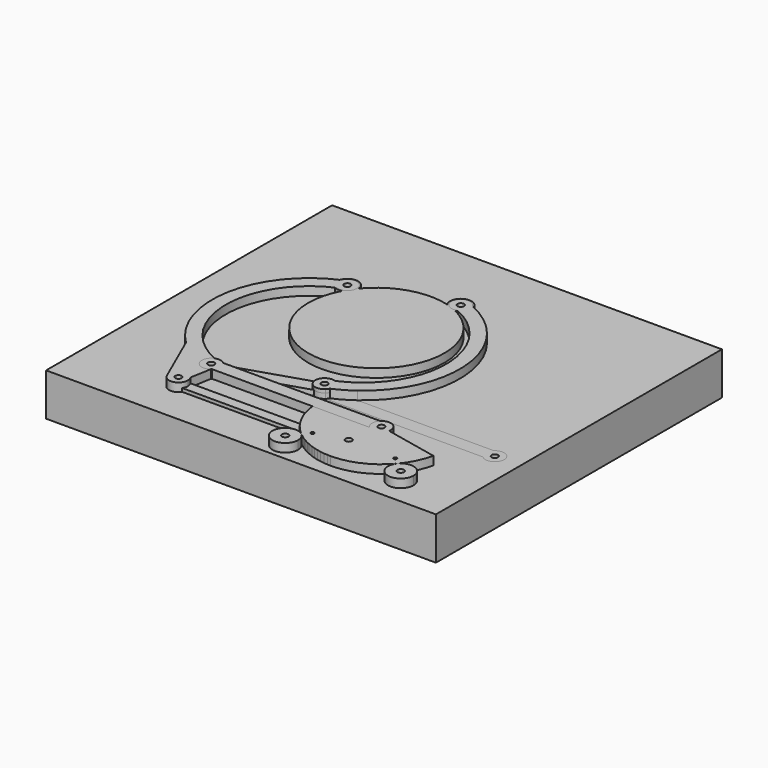
from build123d import *

# Parameters (mm, degrees)
F0_W      = 581.66
F0_H      = 533.4
F0_R      = 4.7625
F1_DEPTH  = 63.5
F2_DEPTH  = 12.7
F3_R      = 4.7625
F4_DEPTH  = 12.7
F5_DEPTH  = 12.7
F3_R_2    = 2.54
F6_DEPTH  = 12.7
F7_DEPTH  = 12.7
F8_DEPTH  = 12.7
F9_DEPTH  = 7.62
F10_R     = 4.7625
F11_DEPTH = 5.08


with BuildPart() as f1:
    # F0 (on Top) → F1 (new body)
    with BuildSketch(Plane.XY):
        with Locations((41.91, -38.1)):
            Rectangle(F0_W, F0_H)
        with Locations((160.02, -190.5)):
            Circle(F0_R, mode=Mode.SUBTRACT)
        with Locations((294.64, -147.32)):
            Circle(F0_R, mode=Mode.SUBTRACT)
        with BuildLine():
            ThreePointArc((44.573985755, 91.3001631647), (86.172144434, 53.8230575464), (101.6, 0))
            ThreePointArc((101.6, 0), (-24.9133341706, -98.4981511527), (-89.3820035532, 48.3054597412))
            ThreePointArc((-89.3820035532, 48.3054597412), (-107.133849878, 72.387736404), (-78.1671570536, 64.9034325607))
            ThreePointArc((-78.1671570536, 64.9034325607), (-30.2217164321, 97.0010714162), (27.4702221657, 97.8158826273))
            ThreePointArc((27.4702221657, 97.8158826273), (36.0061354206, 121.8636400135), (56.515, 106.68))
            ThreePointArc((56.515, 106.68), (53.1792912252, 96.9444054845), (44.573985755, 91.3001631647))
        make_face(mode=Mode.SUBTRACT)
        with BuildLine():
            ThreePointArc((27.4702221657, 97.8158826273), (36.1691252833, 94.9439538688), (44.573985755, 91.3001631647))
            ThreePointArc((44.573985755, 91.3001631647), (53.1792912252, 96.9444054845), (56.515, 106.68))
            ThreePointArc((56.515, 106.68), (36.0061354206, 121.8636400135), (27.4702221657, 97.8158826273))
        make_face()
        with Locations((40.64, 106.68)):
            Circle(F0_R, mode=Mode.SUBTRACT)
        with BuildLine():
            ThreePointArc((27.4702221657, 97.8158826273), (34.9885741745, 91.845007208), (44.573985755, 91.3001631647))
            ThreePointArc((44.573985755, 91.3001631647), (36.1691252833, 94.9439538688), (27.4702221657, 97.8158826273))
        make_face()
        with BuildLine():
            ThreePointArc((-89.3820035532, 48.3054597412), (-24.9133341706, -98.4981511527), (101.6, 0))
            ThreePointArc((101.6, 0), (86.172144434, 53.8230575464), (44.573985755, 91.3001631647))
            ThreePointArc((44.573985755, 91.3001631647), (34.9885741745, 91.845007208), (27.4702221657, 97.8158826273))
            ThreePointArc((27.4702221657, 97.8158826273), (-30.2217164321, 97.0010714162), (-78.1671570536, 64.9034325607))
            ThreePointArc((-78.1671570536, 64.9034325607), (-78.1205468762, 64.2024041664), (-78.105, 63.5))
            ThreePointArc((-78.105, 63.5), (-81.2322782704, 54.038963286), (-89.3820035532, 48.3054597412))
        make_face()
        with BuildLine():
            ThreePointArc((-78.1671570536, 64.9034325607), (-107.133849878, 72.387736404), (-89.3820035532, 48.3054597412))
            ThreePointArc((-89.3820035532, 48.3054597412), (-84.1846392191, 56.8815129858), (-78.1671570536, 64.9034325607))
        make_face()
        with Locations((-93.98, 63.5)):
            Circle(F0_R, mode=Mode.SUBTRACT)
        with BuildLine():
            ThreePointArc((-78.1671570536, 64.9034325607), (-84.1846392191, 56.8815129858), (-89.3820035532, 48.3054597412))
            ThreePointArc((-89.3820035532, 48.3054597412), (-81.2322782704, 54.038963286), (-78.105, 63.5))
            ThreePointArc((-78.105, 63.5), (-78.1205468762, 64.2024041664), (-78.1671570536, 64.9034325607))
        make_face()
        with Locations((40.64, 106.68)):
            Circle(F0_R)
        with Locations((-93.98, 63.5)):
            Circle(F0_R)
    extrude(amount=-F1_DEPTH)


with BuildPart() as f2:
    # F0 (on Top) → F2 (new body)
    with BuildSketch(Plane.XY):
        with BuildLine():
            ThreePointArc((27.4702221657, 97.8158826273), (34.9885741745, 91.845007208), (44.573985755, 91.3001631647))
            ThreePointArc((44.573985755, 91.3001631647), (36.1691252833, 94.9439538688), (27.4702221657, 97.8158826273))
        make_face()
        with BuildLine():
            ThreePointArc((27.4702221657, 97.8158826273), (36.1691252833, 94.9439538688), (44.573985755, 91.3001631647))
            ThreePointArc((44.573985755, 91.3001631647), (53.1792912252, 96.9444054845), (56.515, 106.68))
            ThreePointArc((56.515, 106.68), (36.0061354206, 121.8636400135), (27.4702221657, 97.8158826273))
        make_face()
        with Locations((40.64, 106.68)):
            Circle(F0_R, mode=Mode.SUBTRACT)
        with BuildLine():
            ThreePointArc((-89.3820035532, 48.3054597412), (-24.9133341706, -98.4981511527), (101.6, 0))
            ThreePointArc((101.6, 0), (86.172144434, 53.8230575464), (44.573985755, 91.3001631647))
            ThreePointArc((44.573985755, 91.3001631647), (34.9885741745, 91.845007208), (27.4702221657, 97.8158826273))
            ThreePointArc((27.4702221657, 97.8158826273), (-30.2217164321, 97.0010714162), (-78.1671570536, 64.9034325607))
            ThreePointArc((-78.1671570536, 64.9034325607), (-78.1205468762, 64.2024041664), (-78.105, 63.5))
            ThreePointArc((-78.105, 63.5), (-81.2322782704, 54.038963286), (-89.3820035532, 48.3054597412))
        make_face()
        with BuildLine():
            ThreePointArc((-78.1671570536, 64.9034325607), (-84.1846392191, 56.8815129858), (-89.3820035532, 48.3054597412))
            ThreePointArc((-89.3820035532, 48.3054597412), (-81.2322782704, 54.038963286), (-78.105, 63.5))
            ThreePointArc((-78.105, 63.5), (-78.1205468762, 64.2024041664), (-78.1671570536, 64.9034325607))
        make_face()
        with BuildLine():
            ThreePointArc((-78.1671570536, 64.9034325607), (-107.133849878, 72.387736404), (-89.3820035532, 48.3054597412))
            ThreePointArc((-89.3820035532, 48.3054597412), (-84.1846392191, 56.8815129858), (-78.1671570536, 64.9034325607))
        make_face()
        with Locations((-93.98, 63.5)):
            Circle(F0_R, mode=Mode.SUBTRACT)
    extrude(amount=F2_DEPTH)


with BuildPart() as f4:
    # F3 (on Top) → F4 (new body)
    with BuildSketch(Plane.XY):
        with BuildLine():
            ThreePointArc((-85.6393422684, -201.7068875521), (-97.3664244265, -204.0533401641), (-106.611650396, -196.4667669868))
            ThreePointArc((-106.611650396, -196.4667669868), (-129.7312978514, -183.9035727841), (-150.1953119912, -167.3634375874))
            Line((-150.1953119912, -167.3634375874), (-115.5919281292, -246.1461902107))
            ThreePointArc((-115.5919281292, -246.1461902107), (-109.4730262187, -228.2543047669), (-91.1306916158, -232.8498772711))
            Line((-91.1306916158, -232.8498772711), (-85.6393422684, -201.7068875521))
        make_face()
        with BuildLine():
            ThreePointArc((-88.8313274255, -240.528233853), (-89.4185085471, -236.5206087621), (-91.1306916158, -232.8498772711))
            ThreePointArc((-91.1306916158, -232.8498772711), (-109.4730262187, -228.2543047669), (-115.5919281292, -246.1461902107))
            ThreePointArc((-115.5919281292, -246.1461902107), (-99.9311176624, -254.2002050319), (-88.8313274255, -240.528233853))
        make_face()
        with Locations((-102.8013274255, -240.528233853)):
            Circle(F3_R, mode=Mode.SUBTRACT)
        with BuildLine():
            ThreePointArc((-106.611650396, -196.4667669868), (-106.98574888, -185.3998631322), (-99.1885541168, -177.5372894805))
            ThreePointArc((-99.1885541168, -177.5372894805), (-173.7908745886, -63.5), (-99.1885541168, 50.5372894805))
            ThreePointArc((-99.1885541168, 50.5372894805), (-106.98574888, 58.3998631322), (-106.611650396, 69.4667669868))
            ThreePointArc((-106.611650396, 69.4667669868), (-191.7198262842, -37.2962820378), (-150.1953119912, -167.3634375874))
            ThreePointArc((-150.1953119912, -167.3634375874), (-129.7312978514, -183.9035727841), (-106.611650396, -196.4667669868))
        make_face()
        with BuildLine():
            ThreePointArc((-84.3917102672, -180.34), (-86.0773923032, -178.9800307469), (-87.9530276094, -177.8969645005))
            ThreePointArc((-87.9530276094, -177.8969645005), (-93.5330171729, -176.5371526417), (-99.1885541168, -177.5372894805))
            ThreePointArc((-99.1885541168, -177.5372894805), (-106.98574888, -185.3998631322), (-106.611650396, -196.4667669868))
            ThreePointArc((-106.611650396, -196.4667669868), (-97.3664244265, -204.0533401641), (-85.6393422684, -201.7068875521))
            ThreePointArc((-85.6393422684, -201.7068875521), (-85.0002570927, -201.2016408704), (-84.3917102672, -200.66))
            ThreePointArc((-84.3917102672, -200.66), (-82.9364998754, -199.0558170269), (-81.7467397048, -197.2459797324))
            ThreePointArc((-81.7467397048, -197.2459797324), (-80.4511503386, -193.9829767209), (-80.01, -190.5))
            ThreePointArc((-80.01, -190.5), (-81.1521142122, -184.9677087734), (-84.3917102672, -180.34))
        make_face()
        with Locations((-93.98, -190.5)):
            Circle(F3_R, mode=Mode.SUBTRACT)
        with BuildLine():
            ThreePointArc((-106.611650396, 69.4667669868), (-106.98574888, 58.3998631322), (-99.1885541168, 50.5372894805))
            ThreePointArc((-99.1885541168, 50.5372894805), (-86.1570402344, 51.9257959018), (-80.01, 63.5))
            ThreePointArc((-80.01, 63.5), (-90.9224892504, 77.1313069078), (-106.611650396, 69.4667669868))
        make_face()
        with Locations((-93.98, 63.5)):
            Circle(F3_R, mode=Mode.SUBTRACT)
    extrude(amount=F4_DEPTH)


with BuildPart() as f4b:
    # F3 (on Top) → F4, piece 2 (new body)
    with BuildSketch(Plane.XY):
        with BuildLine():
            ThreePointArc((45.8485541168, -134.3572894805), (48.1699696906, -135.5530778681), (50.2282897328, -137.16))
            Line((50.2282897328, -137.16), (81.4874406015, -137.16))
            ThreePointArc((81.4874406015, -137.16), (139.856080745, -4.0703582319), (53.271650396, 112.6467669868))
            ThreePointArc((53.271650396, 112.6467669868), (54.2713069078, 109.7375107497), (54.61, 106.68))
            ThreePointArc((54.61, 106.68), (52.2142040982, 98.8570402344), (45.8485541168, 93.7172894805))
            ThreePointArc((45.8485541168, 93.7172894805), (120.4508745886, -20.32), (45.8485541168, -134.3572894805))
        make_face()
        with BuildLine():
            ThreePointArc((53.271650396, 112.6467669868), (27.63425112, 111.7801368678), (45.8485541168, 93.7172894805))
            ThreePointArc((45.8485541168, 93.7172894805), (52.2142040982, 98.8570402344), (54.61, 106.68))
            ThreePointArc((54.61, 106.68), (54.2713069078, 109.7375107497), (53.271650396, 112.6467669868))
        make_face()
        with Locations((40.64, 106.68)):
            Circle(F3_R, mode=Mode.SUBTRACT)
        with BuildLine():
            ThreePointArc((50.2282897328, -137.16), (53.4678857878, -141.7877087734), (54.61, -147.32))
            ThreePointArc((54.61, -147.32), (54.2713069078, -150.3775107497), (53.271650396, -153.2867669868))
            ThreePointArc((53.271650396, -153.2867669868), (67.8334837261, -146.0176050381), (81.4874406015, -137.16))
            Line((81.4874406015, -137.16), (50.2282897328, -137.16))
        make_face()
        with BuildLine():
            ThreePointArc((53.271650396, -153.2867669868), (54.2713069078, -150.3775107497), (54.61, -147.32))
            ThreePointArc((54.61, -147.32), (53.4678857878, -141.7877087734), (50.2282897328, -137.16))
            ThreePointArc((50.2282897328, -137.16), (48.1699696906, -135.5530778681), (45.8485541168, -134.3572894805))
            ThreePointArc((45.8485541168, -134.3572894805), (35.9497377853, -134.1608837547), (28.4067397048, -140.5740202676))
            ThreePointArc((28.4067397048, -140.5740202676), (27.337552028, -151.5868229344), (34.6130276094, -159.9230354995))
            ThreePointArc((34.6130276094, -159.9230354995), (42.7993635442, -161.1221030674), (50.2282897328, -157.48))
            ThreePointArc((50.2282897328, -157.48), (51.9460707413, -155.5257092559), (53.271650396, -153.2867669868))
        make_face()
        with Locations((40.64, -147.32)):
            Circle(F3_R, mode=Mode.SUBTRACT)
    extrude(amount=F4_DEPTH)


with BuildPart() as f5:
    # F3 (on Top) → F5 (new body)
    with BuildSketch(Plane.XY):
        with BuildLine():
            ThreePointArc((81.4874406015, -137.16), (67.8334837261, -146.0176050381), (53.271650396, -153.2867669868))
            ThreePointArc((53.271650396, -153.2867669868), (51.9460707413, -155.5257092559), (50.2282897328, -157.48))
            Line((50.2282897328, -157.48), (285.0517102672, -157.48))
            ThreePointArc((285.0517102672, -157.48), (280.67, -147.32), (285.0517102672, -137.16))
            Line((285.0517102672, -137.16), (81.4874406015, -137.16))
        make_face()
        with BuildLine():
            ThreePointArc((308.61, -147.32), (300.1722912266, -134.4921142122), (285.0517102672, -137.16))
            ThreePointArc((285.0517102672, -137.16), (280.67, -147.32), (285.0517102672, -157.48))
            ThreePointArc((285.0517102672, -157.48), (300.1722912266, -160.1478857878), (308.61, -147.32))
        make_face()
        with Locations((294.64, -147.32)):
            Circle(F3_R, mode=Mode.SUBTRACT)
        with BuildLine():
            ThreePointArc((50.2282897328, -137.16), (53.4678857878, -141.7877087734), (54.61, -147.32))
            ThreePointArc((54.61, -147.32), (54.2713069078, -150.3775107497), (53.271650396, -153.2867669868))
            ThreePointArc((53.271650396, -153.2867669868), (67.8334837261, -146.0176050381), (81.4874406015, -137.16))
            Line((81.4874406015, -137.16), (50.2282897328, -137.16))
        make_face()
        with BuildLine():
            ThreePointArc((53.271650396, -153.2867669868), (54.2713069078, -150.3775107497), (54.61, -147.32))
            ThreePointArc((54.61, -147.32), (53.4678857878, -141.7877087734), (50.2282897328, -137.16))
            ThreePointArc((50.2282897328, -137.16), (48.1699696906, -135.5530778681), (45.8485541168, -134.3572894805))
            ThreePointArc((45.8485541168, -134.3572894805), (35.9497377853, -134.1608837547), (28.4067397048, -140.5740202676))
            ThreePointArc((28.4067397048, -140.5740202676), (27.337552028, -151.5868229344), (34.6130276094, -159.9230354995))
            ThreePointArc((34.6130276094, -159.9230354995), (42.7993635442, -161.1221030674), (50.2282897328, -157.48))
            ThreePointArc((50.2282897328, -157.48), (51.9460707413, -155.5257092559), (53.271650396, -153.2867669868))
        make_face()
        with Locations((40.64, -147.32)):
            Circle(F3_R, mode=Mode.SUBTRACT)
    extrude(amount=-F5_DEPTH)


with BuildPart() as f6:
    # F3 (on Top) → F6 (new body)
    with BuildSketch(Plane.XY):
        with BuildLine():
            Line((150.4317102672, -180.34), (-29.0398617156, -180.34))
            Line((-29.0398617156, -180.34), (-81.7467397048, -197.2459797324))
            ThreePointArc((-81.7467397048, -197.2459797324), (-82.9364998754, -199.0558170269), (-84.3917102672, -200.66))
            Line((-84.3917102672, -200.66), (65.3134168075, -200.66))
            Line((65.3134168075, -200.66), (150.4317102672, -200.66))
            ThreePointArc((150.4317102672, -200.66), (146.05, -190.5), (150.4317102672, -180.34))
        make_face()
        with BuildLine():
            Line((-81.7467397048, -197.2459797324), (-29.0398617156, -180.34))
            Line((-29.0398617156, -180.34), (-84.3917102672, -180.34))
            ThreePointArc((-84.3917102672, -180.34), (-81.1521142122, -184.9677087734), (-80.01, -190.5))
            ThreePointArc((-80.01, -190.5), (-80.4511503386, -193.9829767209), (-81.7467397048, -197.2459797324))
        make_face()
        with BuildLine():
            ThreePointArc((-84.3917102672, -180.34), (-86.0773923032, -178.9800307469), (-87.9530276094, -177.8969645005))
            ThreePointArc((-87.9530276094, -177.8969645005), (-93.5330171729, -176.5371526417), (-99.1885541168, -177.5372894805))
            ThreePointArc((-99.1885541168, -177.5372894805), (-106.98574888, -185.3998631322), (-106.611650396, -196.4667669868))
            ThreePointArc((-106.611650396, -196.4667669868), (-97.3664244265, -204.0533401641), (-85.6393422684, -201.7068875521))
            ThreePointArc((-85.6393422684, -201.7068875521), (-85.0002570927, -201.2016408704), (-84.3917102672, -200.66))
            ThreePointArc((-84.3917102672, -200.66), (-82.9364998754, -199.0558170269), (-81.7467397048, -197.2459797324))
            ThreePointArc((-81.7467397048, -197.2459797324), (-80.4511503386, -193.9829767209), (-80.01, -190.5))
            ThreePointArc((-80.01, -190.5), (-81.1521142122, -184.9677087734), (-84.3917102672, -180.34))
        make_face()
        with Locations((-93.98, -190.5)):
            Circle(F3_R, mode=Mode.SUBTRACT)
        with BuildLine():
            ThreePointArc((173.99, -190.5), (165.5522912266, -177.6721142122), (150.4317102672, -180.34))
            ThreePointArc((150.4317102672, -180.34), (146.05, -190.5), (150.4317102672, -200.66))
            ThreePointArc((150.4317102672, -200.66), (154.8612356131, -203.4826056707), (160.02, -204.47))
            Line((160.02, -204.47), (160.02, -195.2625))
            ThreePointArc((160.02, -195.2625), (156.6524039546, -187.1324039546), (164.7825, -190.5))
            ThreePointArc((164.7825, -190.5), (164.7564105267, -190.9978168063), (164.6784279485, -191.4901794275))
            Line((164.6784279485, -191.4901794275), (173.6847219823, -193.4045263207))
            ThreePointArc((173.6847219823, -193.4045263207), (173.9134708783, -191.9602626318), (173.99, -190.5))
        make_face()
        with BuildLine():
            ThreePointArc((160.02, -204.47), (168.811605863, -201.3567290816), (173.6847219823, -193.4045263207))
            Line((173.6847219823, -193.4045263207), (164.6784279485, -191.4901794275))
            ThreePointArc((164.6784279485, -191.4901794275), (163.0171383624, -194.2011576414), (160.02, -195.2625))
            Line((160.02, -195.2625), (160.02, -204.47))
        make_face()
        with BuildLine():
            ThreePointArc((160.02, -204.47), (154.8612356131, -203.4826056707), (150.4317102672, -200.66))
            Line((150.4317102672, -200.66), (65.3134168075, -200.66))
            ThreePointArc((65.3134168075, -200.66), (75.9673663894, -235.3075583257), (98.7944802106, -263.465733235))
            ThreePointArc((98.7944802106, -263.465733235), (127.4425813686, -280.0057221373), (160.02, -285.75))
            Line((160.02, -285.75), (160.02, -204.47))
        make_face()
        with Locations((107.3372687835, -253.2848341949)):
            Circle(F3_R_2, mode=Mode.SUBTRACT)
        with Locations((151.1986725745, -240.528233853)):
            Circle(F3_R, mode=Mode.SUBTRACT)
    extrude(amount=F6_DEPTH)


with BuildPart() as f7:
    # F3 (on Top) → F7 (new body)
    with BuildSketch(Plane.XY):
        with BuildLine():
            Line((253.1885589699, -210.3035885504), (173.6847219823, -193.4045263207))
            ThreePointArc((173.6847219823, -193.4045263207), (168.811605863, -201.3567290816), (160.02, -204.47))
            Line((160.02, -204.47), (160.02, -285.75))
            ThreePointArc((160.02, -285.75), (200.2743894549, -276.825816704), (232.9857332413, -251.7255197819))
            ThreePointArc((232.9857332413, -251.7255197819), (245.6301329217, -232.2548517077), (253.1885589699, -210.3035885504))
        make_face()
        with Locations((222.6683815507, -243.068233853)):
            Circle(F3_R_2, mode=Mode.SUBTRACT)
        with BuildLine():
            ThreePointArc((160.02, -204.47), (154.8612356131, -203.4826056707), (150.4317102672, -200.66))
            Line((150.4317102672, -200.66), (65.3134168075, -200.66))
            ThreePointArc((65.3134168075, -200.66), (75.9673663894, -235.3075583257), (98.7944802106, -263.465733235))
            ThreePointArc((98.7944802106, -263.465733235), (127.4425813686, -280.0057221373), (160.02, -285.75))
            Line((160.02, -285.75), (160.02, -204.47))
        make_face()
        with Locations((107.3372687835, -253.2848341949)):
            Circle(F3_R_2, mode=Mode.SUBTRACT)
        with Locations((151.1986725745, -240.528233853)):
            Circle(F3_R, mode=Mode.SUBTRACT)
        with BuildLine():
            ThreePointArc((173.99, -190.5), (165.5522912266, -177.6721142122), (150.4317102672, -180.34))
            ThreePointArc((150.4317102672, -180.34), (146.05, -190.5), (150.4317102672, -200.66))
            ThreePointArc((150.4317102672, -200.66), (154.8612356131, -203.4826056707), (160.02, -204.47))
            Line((160.02, -204.47), (160.02, -195.2625))
            ThreePointArc((160.02, -195.2625), (156.6524039546, -187.1324039546), (164.7825, -190.5))
            ThreePointArc((164.7825, -190.5), (164.7564105267, -190.9978168063), (164.6784279485, -191.4901794275))
            Line((164.6784279485, -191.4901794275), (173.6847219823, -193.4045263207))
            ThreePointArc((173.6847219823, -193.4045263207), (173.9134708783, -191.9602626318), (173.99, -190.5))
        make_face()
        with BuildLine():
            ThreePointArc((160.02, -204.47), (168.811605863, -201.3567290816), (173.6847219823, -193.4045263207))
            Line((173.6847219823, -193.4045263207), (164.6784279485, -191.4901794275))
            ThreePointArc((164.6784279485, -191.4901794275), (163.0171383624, -194.2011576414), (160.02, -195.2625))
            Line((160.02, -195.2625), (160.02, -204.47))
        make_face()
    extrude(amount=F7_DEPTH)


with BuildPart() as f8:
    # F3 (on Top) → F8 (new body)
    with BuildSketch(Plane.XY):
        with BuildLine():
            ThreePointArc((105.5993762128, -278.0588798485), (103.814539565, -270.008001982), (98.7944802106, -263.465733235))
            ThreePointArc((98.7944802106, -263.465733235), (69.2842128606, -286.109757715), (105.5993762128, -278.0588798485))
        make_face()
        with Locations((86.5493762128, -278.0588798485)):
            Circle(F3_R, mode=Mode.SUBTRACT)
    extrude(amount=F8_DEPTH)


with BuildPart() as f8b:
    # F3 (on Top) → F8, piece 2 (new body)
    with BuildSketch(Plane.XY):
        with BuildLine():
            ThreePointArc((266.6288798485, -263.9706237872), (254.0943636039, -246.0694793703), (232.9857332413, -251.7255197819))
            ThreePointArc((232.9857332413, -251.7255197819), (241.0633960931, -281.871768204), (266.6288798485, -263.9706237872))
        make_face()
        with Locations((247.5788798485, -263.9706237872)):
            Circle(F3_R, mode=Mode.SUBTRACT)
    extrude(amount=F8_DEPTH)


with BuildPart() as f9:
    # F3 (on Top) → F9 (new body)
    with BuildSketch(Plane.XY):
        with BuildLine():
            ThreePointArc((34.6130276094, -159.9230354995), (27.337552028, -151.5868229344), (28.4067397048, -140.5740202676))
            Line((28.4067397048, -140.5740202676), (-87.9530276094, -177.8969645005))
            ThreePointArc((-87.9530276094, -177.8969645005), (-86.0773923032, -178.9800307469), (-84.3917102672, -180.34))
            Line((-84.3917102672, -180.34), (-29.0398617156, -180.34))
            Line((-29.0398617156, -180.34), (34.6130276094, -159.9230354995))
        make_face()
        with BuildLine():
            ThreePointArc((53.271650396, -153.2867669868), (54.2713069078, -150.3775107497), (54.61, -147.32))
            ThreePointArc((54.61, -147.32), (53.4678857878, -141.7877087734), (50.2282897328, -137.16))
            ThreePointArc((50.2282897328, -137.16), (48.1699696906, -135.5530778681), (45.8485541168, -134.3572894805))
            ThreePointArc((45.8485541168, -134.3572894805), (35.9497377853, -134.1608837547), (28.4067397048, -140.5740202676))
            ThreePointArc((28.4067397048, -140.5740202676), (27.337552028, -151.5868229344), (34.6130276094, -159.9230354995))
            ThreePointArc((34.6130276094, -159.9230354995), (42.7993635442, -161.1221030674), (50.2282897328, -157.48))
            ThreePointArc((50.2282897328, -157.48), (51.9460707413, -155.5257092559), (53.271650396, -153.2867669868))
        make_face()
        with Locations((40.64, -147.32)):
            Circle(F3_R, mode=Mode.SUBTRACT)
        with BuildLine():
            ThreePointArc((-84.3917102672, -180.34), (-86.0773923032, -178.9800307469), (-87.9530276094, -177.8969645005))
            ThreePointArc((-87.9530276094, -177.8969645005), (-93.5330171729, -176.5371526417), (-99.1885541168, -177.5372894805))
            ThreePointArc((-99.1885541168, -177.5372894805), (-106.98574888, -185.3998631322), (-106.611650396, -196.4667669868))
            ThreePointArc((-106.611650396, -196.4667669868), (-97.3664244265, -204.0533401641), (-85.6393422684, -201.7068875521))
            ThreePointArc((-85.6393422684, -201.7068875521), (-85.0002570927, -201.2016408704), (-84.3917102672, -200.66))
            ThreePointArc((-84.3917102672, -200.66), (-82.9364998754, -199.0558170269), (-81.7467397048, -197.2459797324))
            ThreePointArc((-81.7467397048, -197.2459797324), (-80.4511503386, -193.9829767209), (-80.01, -190.5))
            ThreePointArc((-80.01, -190.5), (-81.1521142122, -184.9677087734), (-84.3917102672, -180.34))
        make_face()
        with Locations((-93.98, -190.5)):
            Circle(F3_R, mode=Mode.SUBTRACT)
        with BuildLine():
            Line((-81.7467397048, -197.2459797324), (-29.0398617156, -180.34))
            Line((-29.0398617156, -180.34), (-84.3917102672, -180.34))
            ThreePointArc((-84.3917102672, -180.34), (-81.1521142122, -184.9677087734), (-80.01, -190.5))
            ThreePointArc((-80.01, -190.5), (-80.4511503386, -193.9829767209), (-81.7467397048, -197.2459797324))
        make_face()
    extrude(amount=F9_DEPTH)


with BuildPart() as f11:
    # F10 (on Top) → F11 (new body)
    with BuildSketch(Plane.XY):
        with BuildLine():
            ThreePointArc((-97.0863274255, -248.148233853), (-94.2819084312, -244.7879433502), (-93.2763274255, -240.528233853))
            ThreePointArc((-93.2763274255, -240.528233853), (-94.2819084312, -236.2685243559), (-97.0863274255, -232.908233853))
            ThreePointArc((-97.0863274255, -232.908233853), (-112.3263274255, -240.528233853), (-97.0863274255, -248.148233853))
        make_face()
        with Locations((-102.8013274255, -240.528233853)):
            Circle(F10_R, mode=Mode.SUBTRACT)
        with BuildLine():
            ThreePointArc((-97.0863274255, -232.908233853), (-94.2819084312, -236.2685243559), (-93.2763274255, -240.528233853))
            ThreePointArc((-93.2763274255, -240.528233853), (-94.2819084312, -244.7879433502), (-97.0863274255, -248.148233853))
            Line((-97.0863274255, -248.148233853), (146.5227563016, -248.148233853))
            ThreePointArc((146.5227563016, -248.148233853), (142.2583933288, -240.528233853), (146.5227563016, -232.908233853))
            Line((146.5227563016, -232.908233853), (-97.0863274255, -232.908233853))
        make_face()
        with BuildLine():
            ThreePointArc((160.1389518202, -240.528233853), (155.5647117281, -232.7265484517), (146.5227563016, -232.908233853))
            ThreePointArc((146.5227563016, -232.908233853), (142.2583933288, -240.528233853), (146.5227563016, -248.148233853))
            ThreePointArc((146.5227563016, -248.148233853), (155.5647117281, -248.3299192543), (160.1389518202, -240.528233853))
        make_face()
        with Locations((151.1986725745, -240.528233853)):
            Circle(F10_R, mode=Mode.SUBTRACT)
    extrude(amount=F11_DEPTH)


solid = Compound([f1.part, f2.part, f4.part, f4b.part, f5.part, f6.part, f7.part, f8.part, f8b.part, f9.part, f11.part])
